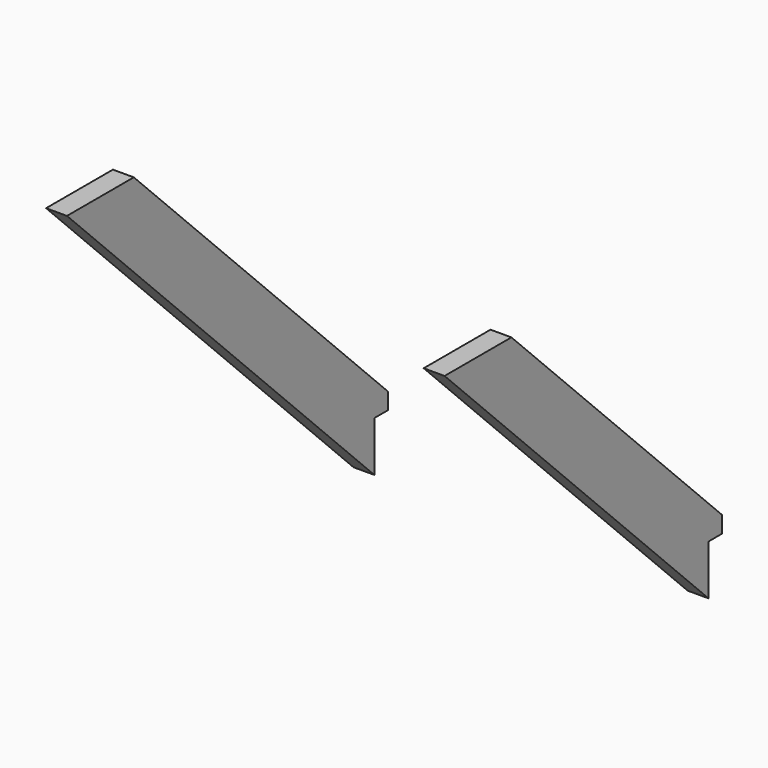
from build123d import *

# Parameters (mm, degrees)
F1_DEPTH = 15.875
F3_W     = 209.55
F3_H     = 82.55
F4_DEPTH = 31.75


with BuildPart() as f1:
    # F0 (on Right) → F1 (new body, symmetric)
    with BuildSketch(Plane.YZ):
        Polygon((127, 0), (0, 0), (584.2, -584.2), (584.2, -508), (609.6, -508), (609.6, -482.6), align=None)
    extrude(amount=F1_DEPTH, both=True)


with BuildPart() as f2_1:
    # F2: copy of F1
    add(f1.part.moved(Location((508, 0, 0))))

    # F3 (on face) → F4 (cut)
    with BuildSketch(Plane.YZ.offset(523.875)):
        with Locations((104.775, -41.275)):
            Rectangle(F3_W, F3_H)
    extrude(amount=-F4_DEPTH, mode=Mode.SUBTRACT)


solid = Compound([f1.part, f2_1.part])
